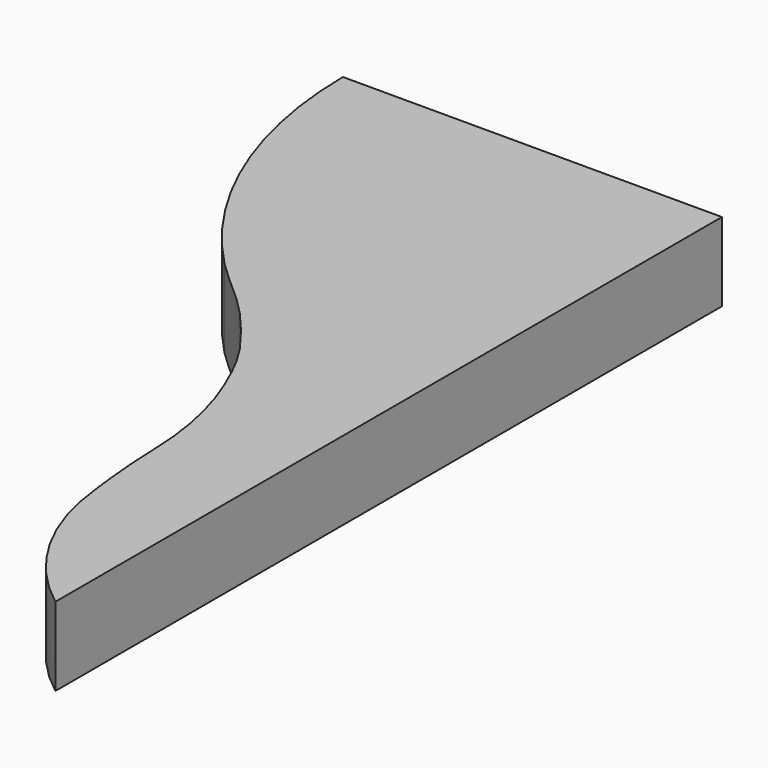
from build123d import *

# Parameters (mm, degrees)
F1_DEPTH = 15.875


with BuildPart() as f1:
    # F0 (on Top) → F1 (new body)
    with BuildSketch(Plane.XY):
        with BuildLine():
            ThreePointArc((-19.0189518034, 33.8788256049), (-13.0693606243, 14.9409587606), (0, 0))
            Line((0, 0), (0, 168.275))
            Line((0, 168.275), (-76.5526965261, 168.275))
            ThreePointArc((-76.5526965261, 168.275), (-69.8588882257, 135.0450743729), (-51.2135662138, 106.7362949252))
            add(Edge.make_bspline(
                [(-51.2135662138, 106.7362949252), (-48.1694847423, 103.6235682004), (-41.0331697175, 98.118662726), (-32.0361803467, 87.0846234453), (-28.4679579809, 81.6483356631), (-25.5296025425, 74.6285393834)],
                knots=[0, 0, 0, 0, 0.3290659129, 0.6517668359, 1, 1, 1, 1], degree=3))
            ThreePointArc((-25.5296025425, 74.6285393834), (-21.9014229231, 63.0936638051), (-20.4372461885, 51.0906130075))
            add(Edge.make_bspline(
                [(-20.4372461885, 51.0906130075), (-20.3038886677, 46.6025204589), (-19.7713533361, 39.2161430752), (-19.166748802, 35.3936346851), (-19.0189518034, 33.8788256049)],
                knots=[0, 0, 0, 0, 0.6068017622, 1, 1, 1, 1], degree=3))
        make_face()
    extrude(amount=F1_DEPTH)


solid = f1.part
